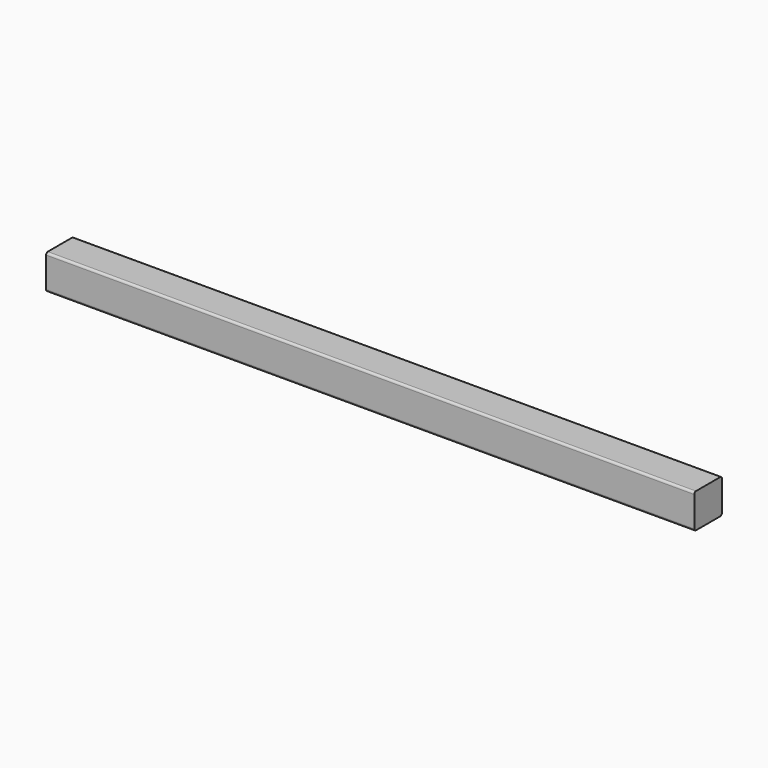
from build123d import *

# Parameters (mm, degrees)
F1_DEPTH = 1500


with BuildPart() as f1:
    # F0 (on Right) → F1 (new body)
    with BuildSketch(Plane.YZ):
        with BuildLine():
            ThreePointArc((40, 35), (38.535534, 38.535534), (35, 40))
            Line((35, 40), (-35, 40))
            ThreePointArc((-35, 40), (-38.535534, 38.535534), (-40, 35))
            Line((-40, 35), (-40, -35))
            ThreePointArc((-40, -35), (-38.535534, -38.535534), (-35, -40))
            Line((-35, -40), (35, -40))
            ThreePointArc((35, -40), (38.535534, -38.535534), (40, -35))
            Line((40, -35), (40, 35))
        make_face()
    extrude(amount=F1_DEPTH)


solid = f1.part
